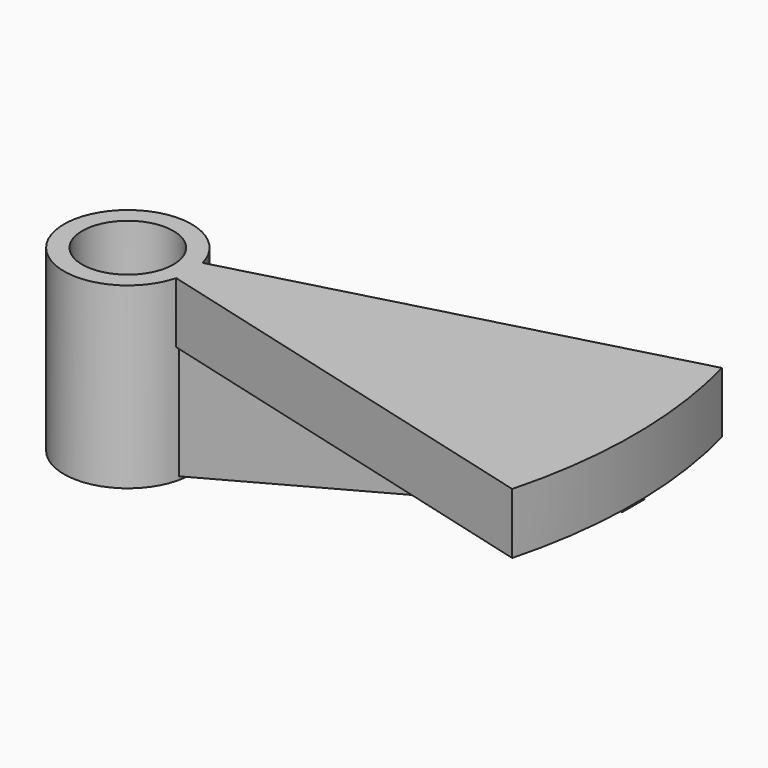
from build123d import *

# Parameters (mm, degrees)
CYLINDER003006_R               = 2.25
CYLINDER003006_DEPTH           = 11
CYLINDER003005_R               = 3.15
CYLINDER003005_DEPTH           = 8.8181
PAD_DEPTH                      = 1.35
CYLINDER003004_W               = 25
CYLINDER003004_H               = 3
CYLINDER003004_ANGLE           = 30
CYLINDER003004_PLACEMENT_ANGLE = -15


with BuildPart() as obj1:
    # Cylinder003006 → Cylinder003006 (new body)
    with BuildSketch(Plane.XY.offset(-1)):
        Circle(CYLINDER003006_R)
    extrude(amount=CYLINDER003006_DEPTH)


with BuildPart() as exterior_cilindro_central:
    # Cylinder003005 → Cylinder003005 (new body)
    with BuildSketch(Plane.XY):
        Circle(CYLINDER003005_R)
    extrude(amount=CYLINDER003005_DEPTH)


with BuildPart() as obj2:
    # Sketch → Pad (new body)
    with BuildSketch(Plane(origin=(2.12, 0.675, 0), x_dir=(1, 0, 0), z_dir=(0, -1, 0))):
        Polygon((0, -0.084088), (22.85, 5.734012), (0, 5.734012), align=None)
    extrude(amount=PAD_DEPTH)


with BuildPart() as obj3:
    # Cylinder003004 → Cylinder003004 (revolve)
    with BuildSketch(Plane.XZ):
        with Locations((12.5, 1.5)):
            Rectangle(CYLINDER003004_W, CYLINDER003004_H)
    revolve(axis=Axis((0, 0, 0), (0, 0, 1)), revolution_arc=CYLINDER003004_ANGLE)


with BuildPart() as obj3_1:
    # Cylinder003004 placement: moved
    add(obj3.part.moved(Location((0, 0, 5.8181))).rotate(Axis((0, 0, 5.8181), (0, 0, 1)), CYLINDER003004_PLACEMENT_ANGLE))

    # Fusion009: union Exterior  cilindro central, obj2
    add(exterior_cilindro_central.part)
    add(obj2.part)

    # Cut013: cut obj1
    add(obj1.part, mode=Mode.SUBTRACT)


solid = obj3_1.part
